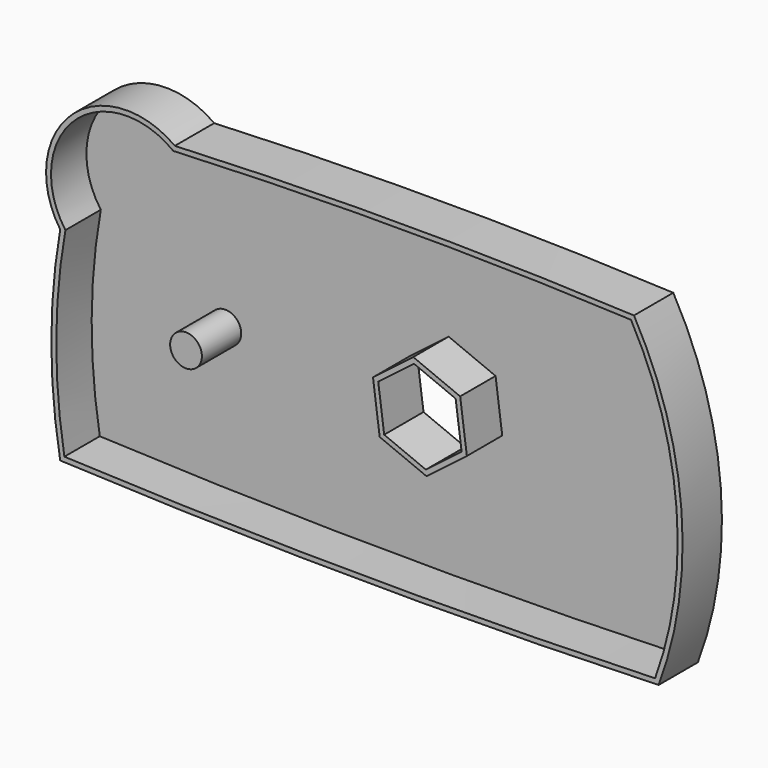
from build123d import *

# Parameters (mm, degrees)
F1_DEPTH = 25
F2_T     = -2.5
F3_R     = 8.0738328397
F4_DEPTH = 25


with BuildPart() as f1:
    # F0 (on Front) → F1 (new body)
    with BuildSketch(Plane.XZ):
        with BuildLine():
            ThreePointArc((-102.7760443896, -106.6724830235), (49.3553380224, -110.5098127391), (201.5178711407, -108.2193697847))
            ThreePointArc((201.5178711407, -108.2193697847), (213.1602276304, -26.1415825476), (189.002040682, 53.1596761167))
            ThreePointArc((189.002040682, 53.1596761167), (72.260836705, 55.8025234443), (-44.4803672719, 53.1596761167))
            ThreePointArc((-44.4803672719, 53.1596761167), (-97.433719622, 49.5356960569), (-102.7760443896, -3.2719768957))
            ThreePointArc((-102.7760443896, -3.2719768957), (-107.2862833974, -54.9722299596), (-102.7760443896, -106.6724830235))
        make_face()
        Polygon((58.9537048383, -18.80859987), (77.1279207266, -4.826139813), (98.3241942876, -13.5742424376), (101.3462519602, -36.3048051192), (83.1720360719, -50.2872651763), (61.975762511, -41.5391625517), align=None, mode=Mode.SUBTRACT)
    extrude(amount=F1_DEPTH)

    # F2
    f2_openings = [f1.faces().sort_by_distance(p)[0] for p in [
        (49.796749, -25, -27.587864),
    ]]
    offset(amount=F2_T, openings=f2_openings, kind=Kind.INTERSECTION)

    # F3 (on face) → F4 (join)
    with BuildSketch(Plane.XZ.offset(2.5)):
        with Locations((-36.8073508143, -34.8820904728)):
            Circle(F3_R)
    extrude(amount=F4_DEPTH)


solid = f1.part
